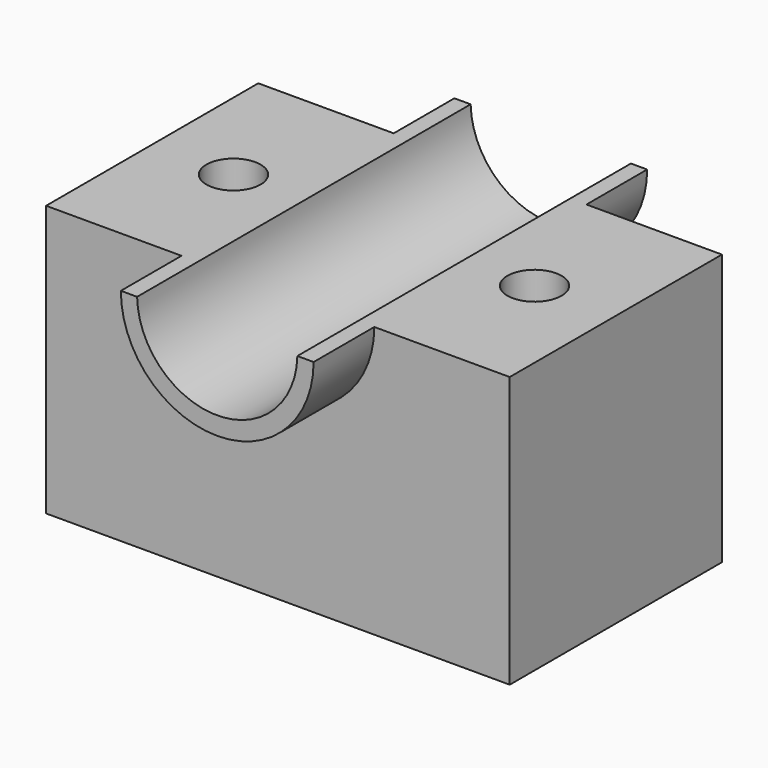
from build123d import *

# Parameters (mm, degrees)
F0_W      = 108.688287437
F0_H      = 62.1764454991
F1_DEPTH  = 63.5
F2_R      = 6.35
F3_DEPTH  = 25.4
F4_W      = 45.188287437
F4_H      = 17.78
F4_H_2    = 62.1764454991
F5_DEPTH  = 25.4
F7_DEPTH  = 17.78
F9_DEPTH  = 97.7364454991
F11_DEPTH = 17.78
F13_DEPTH = 17.78


with BuildPart() as f1:
    # F0 (on Top) → F1 (new body)
    with BuildSketch(Plane.XY):
        with Locations((1.4459639788, -2.0484467968)):
            Rectangle(F0_W, F0_H)
    extrude(amount=F1_DEPTH)

    # F2 (on face) → F3 (cut)
    with BuildSketch(Plane.XY.offset(63.5)):
        with Locations((-33.8375324716, -2.0484467968)):
            Circle(F2_R)
        with Locations((36.7294604292, -2.0484467968)):
            Circle(F2_R)
    extrude(amount=-F3_DEPTH, mode=Mode.SUBTRACT)

    # F4 (on face) → F5 (join)
    with BuildSketch(Plane.XY.offset(63.5)):
        with Locations((1.4459639788, -42.0266695464)):
            Rectangle(F4_W, F4_H)
        with Locations((1.4459639788, -2.0484467968)):
            Rectangle(F4_W, F4_H_2)
        with Locations((1.4459639788, 37.9297759527)):
            Rectangle(F4_W, F4_H)
    extrude(amount=-F5_DEPTH)

    # F6 (on face) → F7 (cut, through all)
    with BuildSketch(Plane.XZ.offset(50.9166695464)):
        with BuildLine():
            ThreePointArc((24.0401076972, 63.5), (1.4459639788, 40.9058562815), (-21.1481797397, 63.5))
            Line((-21.1481797397, 63.5), (-21.1481797397, 38.1))
            Line((-21.1481797397, 38.1), (24.0401076972, 38.1))
            Line((24.0401076972, 38.1), (24.0401076972, 63.5))
        make_face()
    extrude(amount=-F7_DEPTH, mode=Mode.SUBTRACT)

    # F8 (on face) → F9 (cut, through all)
    with BuildSketch(Plane.XZ.offset(50.9166695464)):
        with BuildLine():
            Line((20.2301076972, 63.5), (-17.3381797397, 63.5))
            ThreePointArc((-17.3381797397, 63.5), (1.4459639788, 45.134926003), (20.2301076972, 63.5))
        make_face()
    extrude(amount=-F9_DEPTH, mode=Mode.SUBTRACT)

    # F10 (on face) → F11 (join, through all)
    with BuildSketch(Plane(origin=(0, 46.8197759527, 0), x_dir=(-1, 0, 0), z_dir=(0, 1, 0))):
        with BuildLine():
            ThreePointArc((21.1481797397, 63.5), (-1.4459639788, 40.9058562815), (-24.0401076972, 63.5))
            Line((-24.0401076972, 63.5), (-24.0401076972, 38.1))
            Line((-24.0401076972, 38.1), (21.1481797397, 38.1))
            Line((21.1481797397, 38.1), (21.1481797397, 63.5))
        make_face()
    extrude(amount=-F11_DEPTH)

    # F12 (on face) → F13 (cut, through all)
    with BuildSketch(Plane(origin=(0, 46.8197759527, 0), x_dir=(-1, 0, 0), z_dir=(0, 1, 0))):
        with BuildLine():
            ThreePointArc((21.1481797397, 63.5), (-1.4459639788, 40.9058562815), (-24.0401076972, 63.5))
            Line((-24.0401076972, 63.5), (-24.0401076972, 38.1))
            Line((-24.0401076972, 38.1), (21.1481797397, 38.1))
            Line((21.1481797397, 38.1), (21.1481797397, 63.5))
        make_face()
    extrude(amount=-F13_DEPTH, mode=Mode.SUBTRACT)


solid = f1.part
